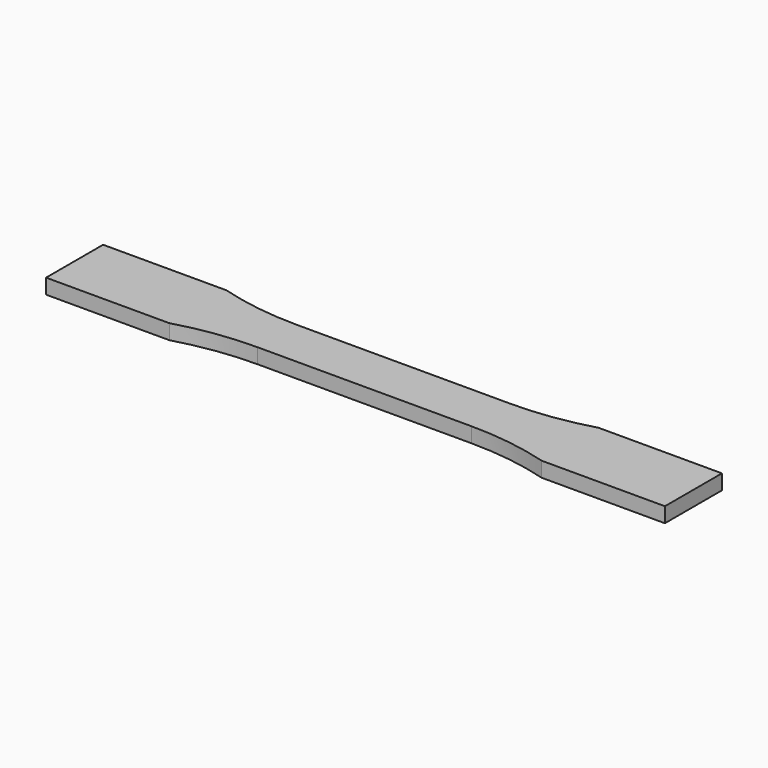
from build123d import *

# Parameters (mm, degrees)
F1_DEPTH = 4


with BuildPart() as f1:
    # F0 (on Top) → F1 (new body)
    with BuildSketch(Plane.XY):
        with BuildLine():
            Line((28.5, 6.5), (-28.5, 6.5))
            ThreePointArc((-28.5, 6.5), (-39.177078, 7.253738), (-49.642375, 9.5))
            Line((-49.642375, 9.5), (-82.5, 9.5))
            Line((-82.5, 9.5), (-82.5, -9.5))
            Line((-82.5, -9.5), (-49.642375, -9.5))
            ThreePointArc((-49.642375, -9.5), (-39.177078, -7.253738), (-28.5, -6.5))
            Line((-28.5, -6.5), (28.5, -6.5))
            ThreePointArc((28.5, -6.5), (39.177078, -7.253738), (49.642375, -9.5))
            Line((49.642375, -9.5), (82.5, -9.5))
            Line((82.5, -9.5), (82.5, 9.5))
            Line((82.5, 9.5), (49.642375, 9.5))
            ThreePointArc((49.642375, 9.5), (39.177078, 7.253738), (28.5, 6.5))
        make_face()
    extrude(amount=F1_DEPTH)


solid = f1.part
